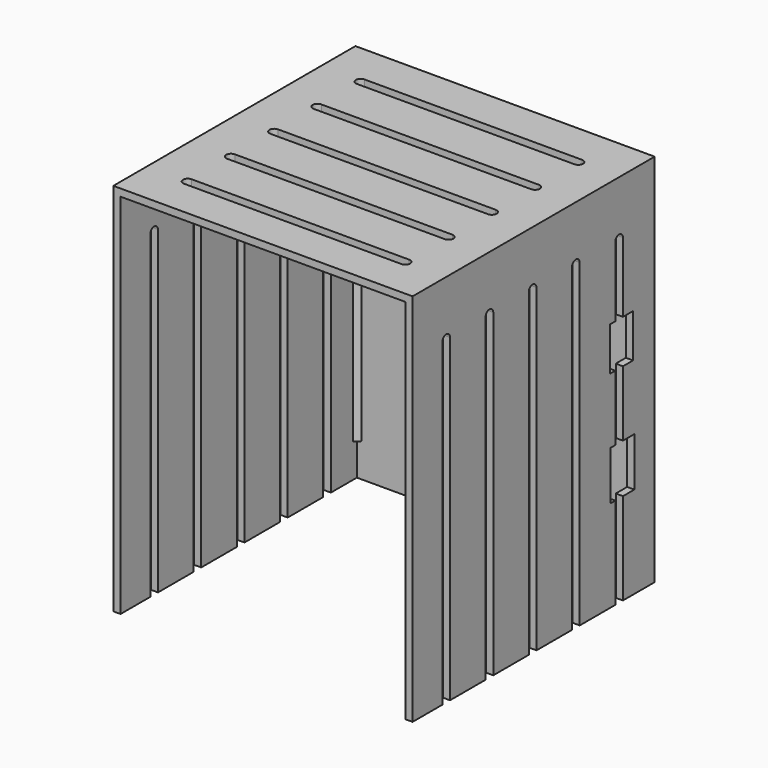
from build123d import *

# Parameters (mm, degrees)
PAD004_DEPTH           = 153
PAD005_DEPTH           = 139
SKETCH007_W            = 124.6
SKETCH007_H            = 126
PAD006_DEPTH           = 3
POCKET002_DEPTH        = 124.601
LINEARPATTERN001_COUNT = 5
LINEARPATTERN001_PITCH = 22.5
POCKET003_DEPTH        = 4
LINEARPATTERN002_COUNT = 5
LINEARPATTERN002_PITCH = 22.5
SKETCH015_R            = 2
POCKET006_DEPTH        = 5
SKETCH016_W            = 12.294895
SKETCH016_H            = 20.342453
SKETCH016_W_2          = 12.071362
SKETCH016_H_2          = 18.107025
POCKET008_DEPTH        = 5


with BuildPart() as part:
    # Sketch006 → Pad004 (new body)
    with BuildSketch(Plane.XY):
        Polygon((62.3, 64.5), (-62.3, 64.5), (-62.3, -61.5), (-59.3, -61.5), (-59.3, 61.5), (59.3, 61.5), (59.3, -61.5), (62.3, -61.5), align=None)
    extrude(amount=PAD004_DEPTH)

    # Sketch008 (on DatumPlane) → Pad005 (join)
    with BuildSketch(Plane.XY.offset(153)):
        Polygon((-59.3, 59.5), (-57.299999, 61.5), (-59.3, 61.5), align=None)
    pad005 = extrude(amount=-PAD005_DEPTH)

    # Mirrored001: Pad005 across Sketch008 V_Axis
    add(pad005.mirror(Plane(origin=(0, 0, 153), x_dir=(0, 0, 1), z_dir=(1, 0, 0))))

    # Sketch007 (on DatumPlane) → Pad006 (join)
    with BuildSketch(Plane.XY.offset(153)):
        with Locations((0, 1.5)):
            Rectangle(SKETCH007_W, SKETCH007_H)
    extrude(amount=PAD006_DEPTH)

    # Sketch010 (on DatumPlane) → Pocket002 (cut, through all)
    with BuildSketch(Plane.YZ.offset(62.3)):
        with BuildLine():
            Line((-46, -89.527603), (-46, 133))
            ThreePointArc((-42, 133), (-44, 135), (-46, 133))
            Line((-42, 133), (-42, -89.527603))
            ThreePointArc((-46, -89.527603), (-44, -91.527603), (-42, -89.527603))
        make_face()
    pocket002 = extrude(amount=-POCKET002_DEPTH, mode=Mode.SUBTRACT)

    # LinearPattern001: Pocket002 ×5
    with Locations(*[(0, i * LINEARPATTERN001_PITCH, 0) for i in range(1, LINEARPATTERN001_COUNT)]):
        add(pocket002, mode=Mode.SUBTRACT)

    # Sketch011 (on Face13 of Pad006) → Pocket003 (cut)
    with BuildSketch(Plane.XY.offset(156)):
        with BuildLine():
            Line((-45.3, -42), (45.3, -42))
            ThreePointArc((45.3, -46), (47.3, -44), (45.3, -42))
            Line((45.3, -46), (-45.3, -46))
            ThreePointArc((-45.3, -42), (-47.3, -44), (-45.3, -46))
        make_face()
    pocket003 = extrude(amount=-POCKET003_DEPTH, mode=Mode.SUBTRACT)

    # LinearPattern002: Pocket003 ×5
    with Locations(*[(0, i * LINEARPATTERN002_PITCH, 0) for i in range(1, LINEARPATTERN002_COUNT)]):
        add(pocket003, mode=Mode.SUBTRACT)

    # Sketch015 (on DatumPlane) → Pocket006 (cut)
    with BuildSketch(Plane.XZ.offset(-64.5)):
        with Locations((-45.035357, 71.063824)):
            Circle(SKETCH015_R)
    extrude(amount=-POCKET006_DEPTH, mode=Mode.SUBTRACT)

    # Sketch016 (on DatumPlane) → Pocket008 (cut)
    with BuildSketch(Plane.YZ.offset(62.3)):
        with Locations((47.763846, 48.412672)):
            Rectangle(SKETCH016_W, SKETCH016_H)
        with Locations((47.204977, 94.909735)):
            Rectangle(SKETCH016_W_2, SKETCH016_H_2)
    extrude(amount=-POCKET008_DEPTH, mode=Mode.SUBTRACT)


with BuildPart() as part_1:
    # Body001 placement: moved
    add(part.part.moved(Location((1.4, 0, 110.1))))


solid = part_1.part
